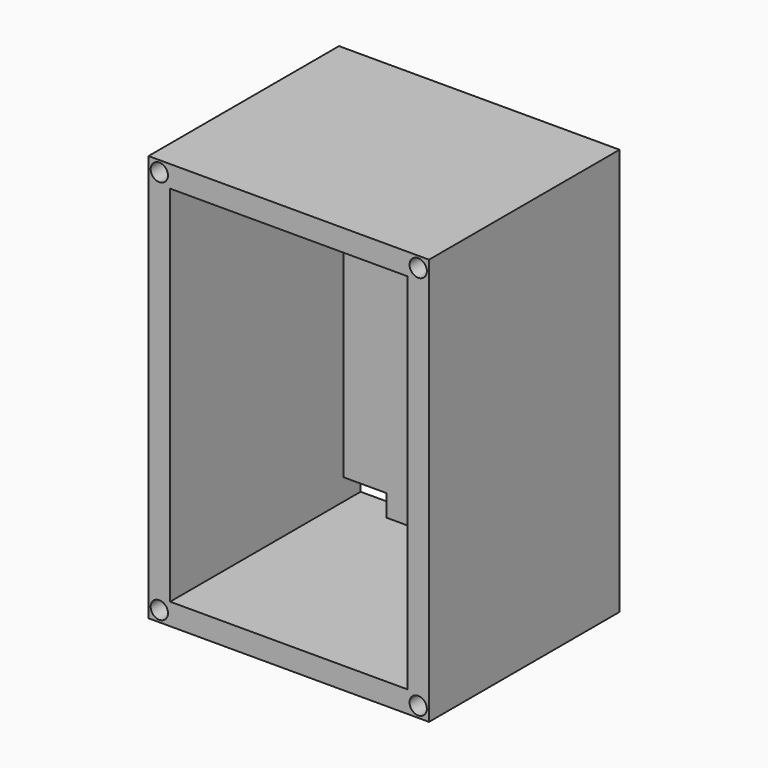
from build123d import *

# Parameters (mm, degrees)
SKETCH_W        = 64.8
SKETCH_H        = 94
PAD_DEPTH       = 55
SKETCH001_W     = 54.8
SKETCH001_H     = 84
POCKET_DEPTH    = 50
SKETCH002_R     = 2
POCKET001_DEPTH = 5
SKETCH003_W     = 10
SKETCH003_H     = 5
POCKET002_DEPTH = 5.001


with BuildPart() as part:
    # Sketch → Pad (new body)
    with BuildSketch(Plane.XZ):
        with Locations((32.4, 47)):
            Rectangle(SKETCH_W, SKETCH_H)
    extrude(amount=PAD_DEPTH)

    # Sketch001 (on Face6 of Pad) → Pocket (cut)
    with BuildSketch(Plane.XZ.offset(55)):
        with Locations((32.4, 47)):
            Rectangle(SKETCH001_W, SKETCH001_H)
    extrude(amount=-POCKET_DEPTH, mode=Mode.SUBTRACT)

    # Sketch002 (on Face5 of Pocket) → Pocket001 (cut)
    with BuildSketch(Plane.XZ.offset(55)):
        with Locations((2.5, 2.5)):
            Circle(SKETCH002_R)
        with Locations((62.3, 2.5)):
            Circle(SKETCH002_R)
        with Locations((62.3, 91.5)):
            Circle(SKETCH002_R)
        with Locations((2.5, 91.5)):
            Circle(SKETCH002_R)
    extrude(amount=-POCKET001_DEPTH, mode=Mode.SUBTRACT)

    # Sketch003 (on Face18 of Pocket001) → Pocket002 (cut, through all)
    with BuildSketch(Plane.XZ.offset(5)):
        with Locations((10, 7.5)):
            Rectangle(SKETCH003_W, SKETCH003_H)
    extrude(amount=-POCKET002_DEPTH, mode=Mode.SUBTRACT)


solid = part.part
